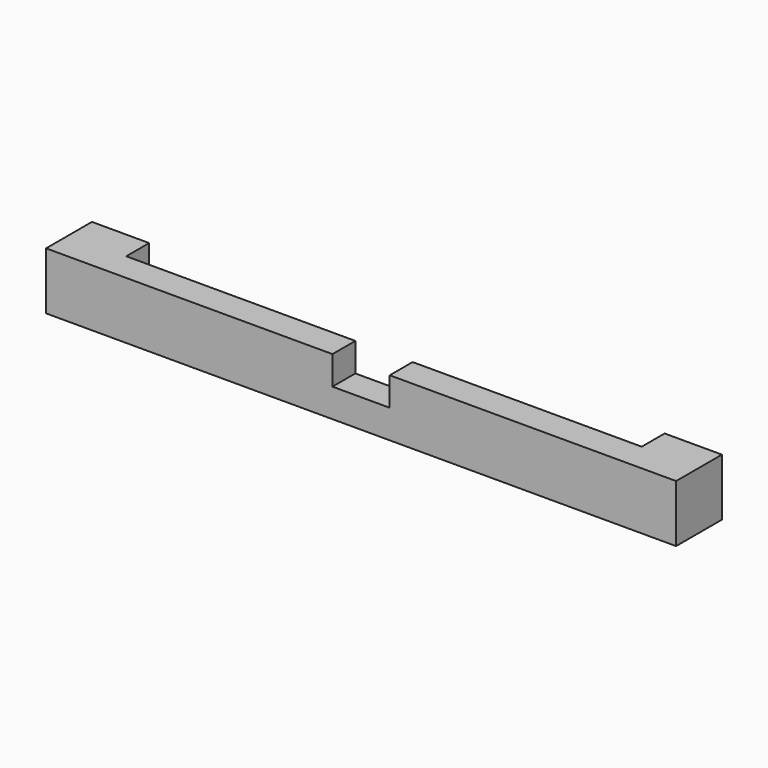
from build123d import *

# Parameters (mm, degrees)
F0_W     = 20
F0_H     = 20
F1_DEPTH = 110
F2_W     = 20
F2_H     = 10
F3_DEPTH = 20
F4_W     = 180
F4_H     = 10
F5_DEPTH = 20


with BuildPart() as f1:
    # F0 (on Right) → F1 (new body, symmetric)
    with BuildSketch(Plane.YZ):
        Rectangle(F0_W, F0_H)
    extrude(amount=F1_DEPTH, both=True)

    # F2 (on face) → F3 (cut)
    with BuildSketch(Plane.XZ.offset(10)):
        with Locations((0, 5)):
            Rectangle(F2_W, F2_H)
    extrude(amount=-F3_DEPTH, mode=Mode.SUBTRACT)

    # F4 (on face) → F5 (cut)
    with BuildSketch(Plane.XY.offset(10)):
        with Locations((0, 5)):
            Rectangle(F4_W, F4_H)
    extrude(amount=-F5_DEPTH, mode=Mode.SUBTRACT)


solid = f1.part
